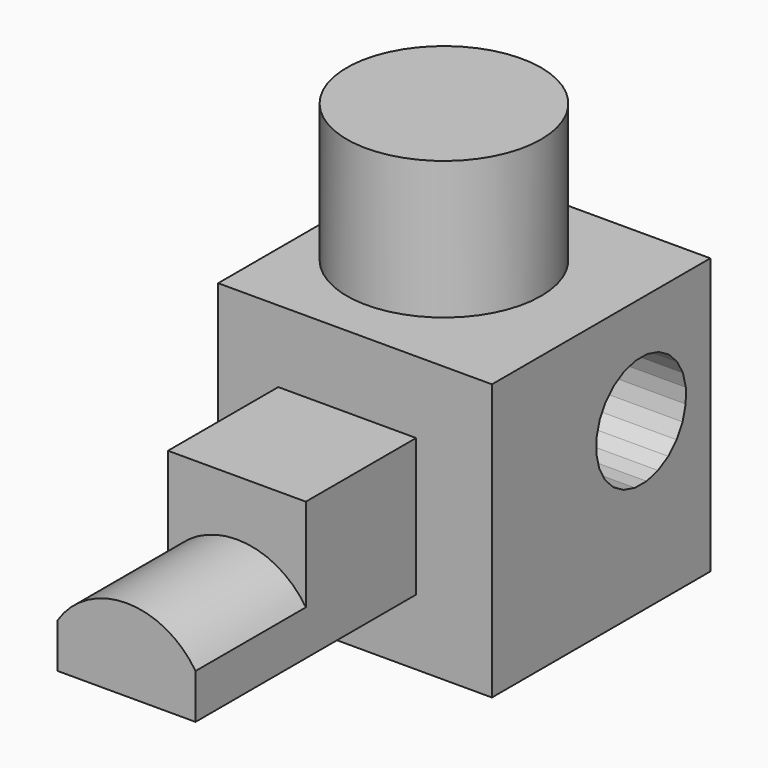
from build123d import *

# Parameters (mm, degrees)
F0_W      = 49.6500022709
F0_H      = 49.5000034571
F1_DEPTH  = 50
F2_W      = 25
F2_H      = 25
F3_DEPTH  = 25
F4_R      = 17.6184560371
F5_DEPTH  = 25
F7_DEPTH  = 25
F8_DEPTH  = 25
F9_DEPTH  = 55
F10_DEPTH = 55
F11_DEPTH = 100
F13_DEPTH = 25


with BuildPart() as f1:
    # F0 (on Top) → F1 (new body)
    with BuildSketch(Plane.XY):
        with Locations((24.8250011355, 24.7500017285)):
            Rectangle(F0_W, F0_H)
    extrude(amount=F1_DEPTH)

    # F2 (on face) → F3 (join)
    with BuildSketch(Plane.XZ):
        with Locations((23.4000021592, 24.4588267358)):
            Rectangle(F2_W, F2_H)
    extrude(amount=F3_DEPTH)

    # F4 (on face) → F5 (join)
    with BuildSketch(Plane.XY.offset(50)):
        with Locations((20.5500014126, 25.5000013858)):
            Circle(F4_R)
    extrude(amount=F5_DEPTH)

    # F6 (on face) → F7 (join)
    with BuildSketch(Plane.YZ.offset(49.6500022709)):
        Polygon((23.6848843281, 29.1616055147), (24.3537883277, 26.5821856483), (25.6675029629, 24.2637824769), (27.5365007525, 22.3643913453), (29.8334125856, 21.0134526203), (32.4017077168, 20.3030305434), (35.066361077, 20.2815392052), (37.6457809434, 20.9504432048), (39.9641841148, 22.26415784), (41.8635752464, 24.1331556296), (43.2145139714, 26.4300674627), (43.9249360483, 28.9983625938), (43.9464273865, 31.6630159541), (43.2775233869, 34.2424358205), (41.9638087517, 36.5608389919), (40.0948109622, 38.4602301235), (37.797899129, 39.8111688485), (35.2296039979, 40.5215909253), (32.5649506376, 40.5430822636), (29.9855307712, 39.874178264), (27.6671275998, 38.5604636288), (25.7677364683, 36.6914658392), (24.4167977433, 34.3945540061), (23.7063756664, 31.826258875), align=None)
    extrude(amount=F7_DEPTH)

    # F8 (add): a face of the model
    f8_faces = [f1.faces().sort_by_distance(p)[0] for p in [
        (74.6500022709, 33.8156558573, 30.4123107344),
    ]]
    extrude(f8_faces, amount=F8_DEPTH)

    # F9 (cut): a face of the model
    f9_faces = [f1.faces().sort_by_distance(p)[0] for p in [
        (99.6500022709, 33.8156558573, 30.4123107344),
    ]]
    extrude(f9_faces, amount=-F9_DEPTH, mode=Mode.SUBTRACT)

    # F10 (add): a face of the model
    f10_faces = [f1.faces().sort_by_distance(p)[0] for p in [
        (44.6500022709, 33.8156558573, 30.4123107344),
    ]]
    extrude(f10_faces, amount=F10_DEPTH)

    # F11 (cut): a face of the model
    f11_faces = [f1.faces().sort_by_distance(p)[0] for p in [
        (99.6500022709, 33.8156558573, 30.4123107344),
    ]]
    extrude(f11_faces, amount=-F11_DEPTH, mode=Mode.SUBTRACT)

    # F12 (on face) → F13 (join)
    with BuildSketch(Plane.XZ.offset(25)):
        with BuildLine():
            Line((35.9000021592, 11.9588267358), (35.9000021592, 20.0868558522))
            ThreePointArc((35.9000021592, 20.0868558522), (23.4000021592, 26.8690533376), (10.9000021592, 20.0868558522))
            Line((10.9000021592, 20.0868558522), (10.9000021592, 11.9588267358))
            Line((10.9000021592, 11.9588267358), (35.9000021592, 11.9588267358))
        make_face()
    extrude(amount=F13_DEPTH)


solid = f1.part
